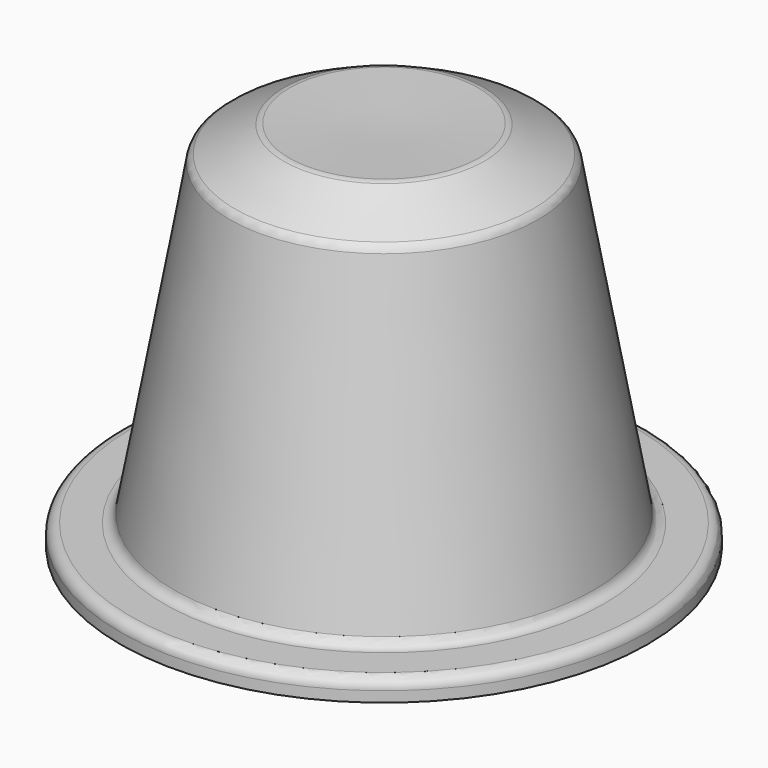
from build123d import *

# Parameters (mm, degrees)
F2_R     = 1
F3_R     = 1
F4_R     = 1
F6_R     = 1
F5_W     = 1.4720052083
F5_H     = 6.9407552083
F7_DEPTH = 1


with BuildPart() as f1:
    # F0 (on Front) → F1 (revolve)
    with BuildSketch(Plane.XZ):
        Polygon((-15.7612468847, 26.8610949349), (-25, 26.5325776871), (-25, -8.4674223129), (0, -8.4674223129), (0, -6.4674223129), (-5, -6.4674223129), (-10.4617679345, 24.0476410334), align=None)
    revolve(axis=Axis((-25, 0, 9.0325776871), (0, 0, -1)))

    # F2
    f2_edges = [f1.edges().sort_by_distance(p)[0] for p in [
        (-50, 0, -6.467422),
    ]]
    fillet(f2_edges, radius=F2_R)

    # F3
    f3_edges = [f1.edges().sort_by_distance(p)[0] for p in [
        (-39.538232, 0, 24.047641),
    ]]
    fillet(f3_edges, radius=F3_R)

    # F4
    f4_edges = [f1.edges().sort_by_distance(p)[0] for p in [
        (-34.238753, 0, 26.861095),
    ]]
    fillet(f4_edges, radius=F4_R)

    # F6
    f6_edges = [f1.edges().sort_by_distance(p)[0] for p in [
        (-45, 0, -6.467422),
    ]]
    fillet(f6_edges, radius=F6_R)

    # F5 (on face) → F7 (cut)
    with BuildSketch(Plane(origin=(0, 0, -8.4674223129), x_dir=(1, 0, 0), z_dir=(0, 0, -1))):
        with BuildLine():
            Line((-24.0117916375, 2.4857208138), (-25.1240337615, 2.4857208138))
            Line((-25.1240337615, 2.4857208138), (-25.1240337615, 1.3849309239))
            Line((-25.1240337615, 1.3849309239), (-23.1428680264, -4.4550343946))
            Line((-23.1428680264, -4.4550343946), (-21.5387013598, -4.4550343946))
            Line((-21.5387013598, -4.4550343946), (-19.1795433737, 2.4857208138))
            Line((-19.1795433737, 2.4857208138), (-20.665220457, 2.4857208138))
            Line((-20.665220457, 2.4857208138), (-21.9792395542, -1.6447045335))
            add(Edge.make_bspline(
                [(-22.3362274014, -3.172916339), (-22.2830589987, -2.7369354362), (-21.9792395542, -1.6447045335)],
                knots=[0, 0, 0, 1, 1, 1], degree=2))
            add(Edge.make_bspline(
                [(-22.4805416375, -2.4969180751), (-22.3635711514, -2.9830291862), (-22.3362274014, -3.172916339)],
                knots=[0, 0, 0, 1, 1, 1], degree=2))
            add(Edge.make_bspline(
                [(-22.7053680264, -1.6447045335), (-22.5975121237, -2.010806964), (-22.4805416375, -2.4969180751)],
                knots=[0, 0, 0, 1, 1, 1], degree=2))
            Line((-22.7053680264, -1.6447045335), (-24.0117916375, 2.4857208138))
        make_face()
        Polygon((-25.1240337615, 1.3849309239), (-25.1240337615, 2.4857208138), (-25.4974687209, 2.4857208138), align=None)
        with BuildLine():
            Line((-45.6498124709, 0.9894100499), (-43.9788055264, -4.4550343946))
            Line((-43.9788055264, -4.4550343946), (-42.6298471931, -4.4550343946))
            Line((-42.6298471931, -4.4550343946), (-40.8403506653, 0.9802954665))
            Line((-40.8403506653, 0.9802954665), (-40.7978159431, 0.9802954665))
            add(Edge.make_bspline(
                [(-40.8616180264, -0.6329857835), (-40.8540225403, -0.329166339), (-40.7978159431, 0.9802954665)],
                knots=[0, 0, 0, 1, 1, 1], degree=2))
            add(Edge.make_bspline(
                [(-40.8692135125, -1.1692271029), (-40.8692135125, -0.9368052279), (-40.8616180264, -0.6329857835)],
                knots=[0, 0, 0, 1, 1, 1], degree=2))
            Line((-40.8692135125, -1.1692271029), (-40.8692135125, -4.4550343946))
            Line((-40.8692135125, -4.4550343946), (-39.4974687209, -4.4550343946))
            Line((-39.4974687209, -4.4550343946), (-39.4974687209, 2.4857208138))
            Line((-39.4974687209, 2.4857208138), (-41.4996388598, 2.4857208138))
            Line((-41.4996388598, 2.4857208138), (-43.2420433737, -2.8220048807))
            Line((-43.2420433737, -2.8220048807), (-43.2709062209, -2.8220048807))
            Line((-43.2709062209, -2.8220048807), (-44.9130503181, 2.4857208138))
            Line((-44.9130503181, 2.4857208138), (-46.9167395542, 2.4857208138))
            Line((-46.9167395542, 2.4857208138), (-46.9167395542, -4.4550343946))
            Line((-46.9167395542, -4.4550343946), (-45.6012013598, -4.4550343946))
            Line((-45.6012013598, -4.4550343946), (-45.6012013598, -1.2269527973))
            add(Edge.make_bspline(
                [(-45.6923471931, 0.9894100499), (-45.6012013598, -0.670963214), (-45.6012013598, -1.2269527973)],
                knots=[0, 0, 0, 1, 1, 1], degree=2))
            Line((-45.6923471931, 0.9894100499), (-45.6498124709, 0.9894100499))
        make_face()
        Polygon((-34.0044131653, -2.8022566168), (-33.5015919848, -4.4550343946), (-31.9156544848, -4.4550343946), (-34.3750728875, 2.514583661), (-36.1736839987, 2.514583661), (-38.6239878181, -4.4550343946), (-37.0380503181, -4.4550343946), (-36.5352291375, -2.8022566168), align=None)
        with BuildLine():
            add(Edge.make_bspline(
                [(-34.3568437209, -1.5687496723), (-35.0541093459, 0.6764760221), (-35.1422169848, 0.9711808832)],
                knots=[0, 0, 0, 1, 1, 1], degree=2))
            Line((-34.3568437209, -1.5687496723), (-36.1645694153, -1.5687496723))
            add(Edge.make_bspline(
                [(-35.2683020542, 1.4360246332), (-35.4247690681, 0.8283857443), (-36.1645694153, -1.5687496723)],
                knots=[0, 0, 0, 1, 1, 1], degree=2))
            add(Edge.make_bspline(
                [(-35.1422169848, 0.9711808832), (-35.2303246237, 1.2658857443), (-35.2683020542, 1.4360246332)],
                knots=[0, 0, 0, 1, 1, 1], degree=2))
        make_face(mode=Mode.SUBTRACT)
        with BuildLine():
            Line((-29.5701683737, -4.4550343946), (-29.5701683737, -1.792056964))
            Line((-29.5701683737, -1.792056964), (-28.7878333042, -1.792056964))
            Line((-28.7878333042, -1.792056964), (-27.1304982348, -4.4550343946))
            Line((-27.1304982348, -4.4550343946), (-25.4974687209, -4.4550343946))
            add(Edge.make_bspline(
                [(-27.5391353875, -1.4305118251), (-25.9714270542, -3.7714406446), (-25.4974687209, -4.4550343946)],
                knots=[0, 0, 0, 1, 1, 1], degree=2))
            add(Edge.make_bspline(
                [(-26.5843827834, -0.6831159918), (-26.9208628181, -1.1601125196), (-27.5391353875, -1.4305118251)],
                knots=[0, 0, 0, 1, 1, 1], degree=2))
            add(Edge.make_bspline(
                [(-26.2479027487, 0.4060767165), (-26.2479027487, -0.206119464), (-26.5843827834, -0.6831159918)],
                knots=[0, 0, 0, 1, 1, 1], degree=2))
            add(Edge.make_bspline(
                [(-26.9261796584, 1.9707468554), (-26.2479027487, 1.4557728971), (-26.2479027487, 0.4060767165)],
                knots=[0, 0, 0, 1, 1, 1], degree=2))
            add(Edge.make_bspline(
                [(-29.0202551792, 2.4857208138), (-27.6044565681, 2.4857208138), (-26.9261796584, 1.9707468554)],
                knots=[0, 0, 0, 1, 1, 1], degree=2))
            Line((-29.0202551792, 2.4857208138), (-31.042173582, 2.4857208138))
            Line((-31.042173582, 2.4857208138), (-31.042173582, -4.4550343946))
            Line((-31.042173582, -4.4550343946), (-29.5701683737, -4.4550343946))
        make_face()
        with BuildLine():
            Line((-29.0962100403, -0.5950083529), (-29.5701683737, -0.5950083529))
            Line((-29.5701683737, -0.5950083529), (-29.5701683737, 1.2795576193))
            Line((-29.5701683737, 1.2795576193), (-29.1235537903, 1.2795576193))
            add(Edge.make_bspline(
                [(-28.0730980612, 1.0706817513), (-28.4126162903, 1.2795576193), (-29.1235537903, 1.2795576193)],
                knots=[0, 0, 0, 1, 1, 1], degree=2))
            add(Edge.make_bspline(
                [(-27.733579832, 0.368099286), (-27.733579832, 0.8618058832), (-28.0730980612, 1.0706817513)],
                knots=[0, 0, 0, 1, 1, 1], degree=2))
            add(Edge.make_bspline(
                [(-28.065502575, -0.3625864779), (-27.733579832, -0.1301646029), (-27.733579832, 0.368099286)],
                knots=[0, 0, 0, 1, 1, 1], degree=2))
            add(Edge.make_bspline(
                [(-29.0962100403, -0.5950083529), (-28.3974253181, -0.5950083529), (-28.065502575, -0.3625864779)],
                knots=[0, 0, 0, 1, 1, 1], degree=2))
        make_face(mode=Mode.SUBTRACT)
        with Locations((-17.5700598667, -0.9846567904)):
            Rectangle(F5_W, F5_H)
        with BuildLine():
            Line((-10.8002030959, -4.4550343946), (-8.9301944153, -4.4550343946))
            Line((-8.9301944153, -4.4550343946), (-8.9301944153, 2.4857208138))
            Line((-8.9301944153, 2.4857208138), (-10.2548471931, 2.4857208138))
            Line((-10.2548471931, 2.4857208138), (-10.2548471931, -0.8000864779))
            add(Edge.make_bspline(
                [(-10.1834496237, -2.7126298807), (-10.2548471931, -1.3591142557), (-10.2548471931, -0.8000864779)],
                knots=[0, 0, 0, 1, 1, 1], degree=2))
            Line((-10.1834496237, -2.7126298807), (-10.2168697625, -2.7126298807))
            Line((-10.2168697625, -2.7126298807), (-13.2307586514, 2.4857208138))
            Line((-13.2307586514, 2.4857208138), (-15.087095457, 2.4857208138))
            Line((-15.087095457, 2.4857208138), (-15.087095457, -4.4550343946))
            Line((-15.087095457, -4.4550343946), (-13.7715572625, -4.4550343946))
            Line((-13.7715572625, -4.4550343946), (-13.7715572625, -1.1889753668))
            add(Edge.make_bspline(
                [(-13.8627030959, 0.7949656054), (-13.7715572625, -0.5950083529), (-13.7715572625, -1.1889753668)],
                knots=[0, 0, 0, 1, 1, 1], degree=2))
            Line((-13.8627030959, 0.7949656054), (-13.8201683737, 0.7949656054))
            Line((-13.8201683737, 0.7949656054), (-10.8002030959, -4.4550343946))
        make_face()
        Polygon((-4.7131805264, -2.1520830057), (-3.5556284431, -2.1520830057), (-3.3140919848, 2.4857208138), (-4.956236082, 2.4857208138), align=None)
        with BuildLine():
            add(Edge.make_bspline(
                [(-4.9744652487, -3.7759979362), (-4.9744652487, -3.377994464), (-4.7610320889, -3.1736758876)],
                knots=[0, 0, 0, 1, 1, 1], degree=2))
            add(Edge.make_bspline(
                [(-4.7564747973, -4.3714840473), (-4.9744652487, -4.1603295335), (-4.9744652487, -3.7759979362)],
                knots=[0, 0, 0, 1, 1, 1], degree=2))
            add(Edge.make_bspline(
                [(-4.1389617764, -4.5826385612), (-4.5384843459, -4.5826385612), (-4.7564747973, -4.3714840473)],
                knots=[0, 0, 0, 1, 1, 1], degree=2))
            add(Edge.make_bspline(
                [(-3.5320824362, -4.3669267557), (-3.7500728875, -4.5826385612), (-4.1389617764, -4.5826385612)],
                knots=[0, 0, 0, 1, 1, 1], degree=2))
            add(Edge.make_bspline(
                [(-3.3140919848, -3.7759979362), (-3.3140919848, -4.1512149501), (-3.5320824362, -4.3669267557)],
                knots=[0, 0, 0, 1, 1, 1], degree=2))
            add(Edge.make_bspline(
                [(-3.5298037903, -3.1782331793), (-3.3140919848, -3.3871090473), (-3.3140919848, -3.7759979362)],
                knots=[0, 0, 0, 1, 1, 1], degree=2))
            add(Edge.make_bspline(
                [(-4.1389617764, -2.9693573112), (-3.7455155959, -2.9693573112), (-3.5298037903, -3.1782331793)],
                knots=[0, 0, 0, 1, 1, 1], degree=2))
            add(Edge.make_bspline(
                [(-4.7610320889, -3.1736758876), (-4.5475989292, -2.9693573112), (-4.1389617764, -2.9693573112)],
                knots=[0, 0, 0, 1, 1, 1], degree=2))
        make_face()
    extrude(amount=-F7_DEPTH, mode=Mode.SUBTRACT)


solid = f1.part
